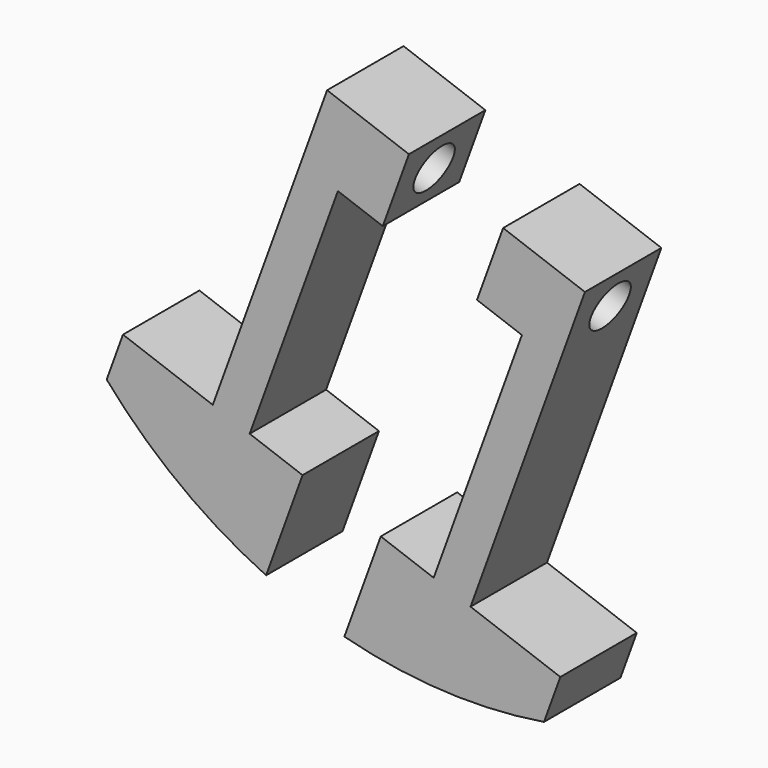
from build123d import *

# Parameters (mm, degrees)
F1_DEPTH      = 10
F2_R          = 2.5
F3_DEPTH      = 30.7976981307
F3_DEPTH_BACK = 19.6048505534


with BuildPart() as f1:
    # F0 (on Front) → F1 (new body)
    with BuildSketch(Plane.XZ):
        with BuildLine():
            Line((-36.1133000789, 21.9969287017), (-37.8234007955, 17.2984655978))
            ThreePointArc((-37.8234007955, 17.2984655978), (-30.1443214472, 10.1086490015), (-21.130913087, 4.6846106482))
            Line((-21.130913087, 4.6846106482), (-17.3194476632, 15.1565258352))
            Line((-17.3194476632, 15.1565258352), (-22.853557124, 17.1707769521))
            Line((-22.853557124, 17.1707769521), (-26.7163738711, 18.5767272685))
            Line((-26.7163738711, 18.5767272685), (-36.1133000789, 21.9969287017))
        make_face()
        Polygon((-14.7456688547, 51.465968996), (-26.7163738711, 18.5767272685), (-22.853557124, 17.1707769521), (-13.6190132542, 42.5424777133), (-8.9205501503, 40.8323769967), (-6.1843890037, 48.349917963), align=None)
    extrude(amount=F1_DEPTH)


with BuildPart() as f1b:
    # F0 (on Front) → F1, piece 2 (new body)
    with BuildSketch(Plane.XZ):
        Polygon((12.238144393, 41.6446641668), (3.676864542, 44.7607151998), (0.9407033954, 37.2431742335), (5.6391664993, 35.5330735169), (-3.5953773705, 10.1613727557), (0.2674393766, 8.7554224393), align=None)
        with BuildLine():
            Line((9.6643655844, 5.3352210061), (0.2674393766, 8.7554224393))
            Line((0.2674393766, 8.7554224393), (-3.5953773705, 10.1613727557))
            Line((-3.5953773705, 10.1613727557), (-9.1294868313, 12.1756238726))
            Line((-9.1294868313, 12.1756238726), (-12.9409522551, 1.7037086855))
            ThreePointArc((-12.9409522551, 1.7037086855), (-2.5497762193, 0.0650559104), (7.9542648678, 0.6367579021))
            Line((7.9542648678, 0.6367579021), (9.6643655844, 5.3352210061))
        make_face()
    extrude(amount=F1_DEPTH)


with BuildPart() as f3_tool:
    # F2 (on face) → F3 (new body, two sides)
    with BuildSketch(Plane(origin=(-21.000317015, 0, 7.6434903036), x_dir=(0, 1, 0), z_dir=(0.9396926208, 0, -0.3420201433))) as f3_sk:
        with Locations((-5, 39.318875512)):
            Circle(F2_R)
    extrude(amount=-F3_DEPTH)
    extrude(f3_sk.sketch, amount=F3_DEPTH_BACK)


with BuildPart() as f1_1:
    add(f1.part)

    # F3: cut by f3_tool
    add(f3_tool.part, mode=Mode.SUBTRACT)


with BuildPart() as f1b_1:
    add(f1b.part)

    # F3: cut by f3_tool
    add(f3_tool.part, mode=Mode.SUBTRACT)


solid = Compound([f1_1.part, f1b_1.part])
